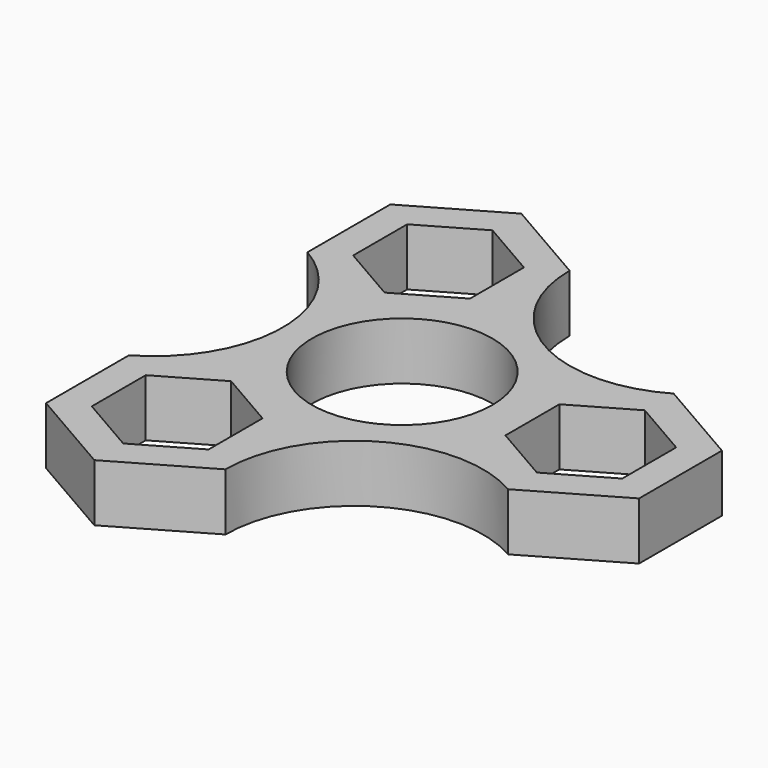
from build123d import *

# Parameters (mm, degrees)
F0_R     = 10.9855
F1_DEPTH = 6.985


with BuildPart() as f1:
    # F0 (on Top) → F1 (new body)
    with BuildSketch(Plane.XY):
        with BuildLine():
            Line((-0.570141, 26.199883), (-0.570143, 26.205813))
            Line((-0.570143, 26.205813), (-11.487829, 32.509142))
            Line((-11.487829, 32.509142), (-22.409829, 26.203322))
            Line((-22.409829, 26.203322), (-22.409829, 13.591683))
            ThreePointArc((-22.409829, 13.591683), (-14.562667, 0), (-22.409828, -13.591683))
            Line((-22.409828, -13.591683), (-22.409828, -26.203322))
            Line((-22.409828, -26.203322), (-11.487828, -32.509142))
            Line((-11.487828, -32.509142), (-0.565829, -26.203322))
            ThreePointArc((-0.565829, -26.203322), (7.280049, -12.609415), (22.975657, -12.608674))
            Line((22.975657, -12.608674), (33.897656, -6.302854))
            Line((33.897656, -6.302854), (33.897656, 6.308785))
            Line((33.897656, 6.308785), (22.975657, 12.614604))
            ThreePointArc((22.975657, 12.614604), (7.282309, 12.612381), (-0.570141, 26.199883))
        make_face()
        Polygon((-18.599828, -24.003618), (-18.599828, -15.791388), (-11.487828, -11.685272), (-4.375828, -15.791388), (-4.375828, -24.003618), (-11.487828, -28.109733), align=None, mode=Mode.SUBTRACT)
        Circle(F0_R, mode=Mode.SUBTRACT)
        Polygon((22.975657, -8.21223), (15.863657, -4.106115), (15.863657, 4.106115), (22.975657, 8.21223), (30.087657, 4.106115), (30.087657, -4.106115), align=None, mode=Mode.SUBTRACT)
        Polygon((-11.487829, 28.109733), (-4.375829, 24.003618), (-4.375829, 15.791387), (-11.487829, 11.685272), (-18.599829, 15.791387), (-18.599829, 24.003618), align=None, mode=Mode.SUBTRACT)
    extrude(amount=F1_DEPTH)


solid = f1.part
